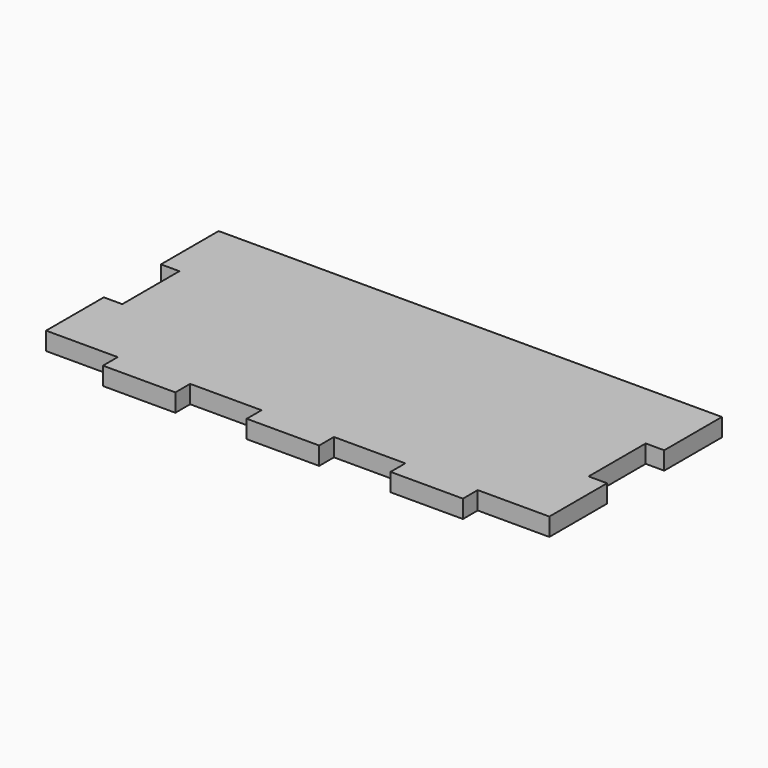
from build123d import *

# Parameters (mm, degrees)
F0_W     = 25.5778
F0_H     = 6.5278
F1_DEPTH = 6.35


with BuildPart() as f1:
    # F0 (on Top) → F1 (new body)
    with BuildSketch(Plane.XY):
        Polygon((0, 25.4889), (0, 0), (25.3111, 0), (50.8889, 0), (76.1111, 0), (101.6889, 0), (126.9111, 0), (152.4889, 0), (177.8, 0), (177.8, 25.4889), (171.2722, 25.4889), (171.2722, 50.7111), (177.8, 50.7111), (177.8, 76.2), (0, 76.2), (0, 50.7111), (6.5278, 50.7111), (6.5278, 25.4889), align=None)
        with Locations((38.1, -3.2639)):
            Rectangle(F0_W, F0_H)
        with Locations((88.9, -3.2639)):
            Rectangle(F0_W, F0_H)
        with Locations((139.7, -3.2639)):
            Rectangle(F0_W, F0_H)
    extrude(amount=F1_DEPTH)


solid = f1.part
